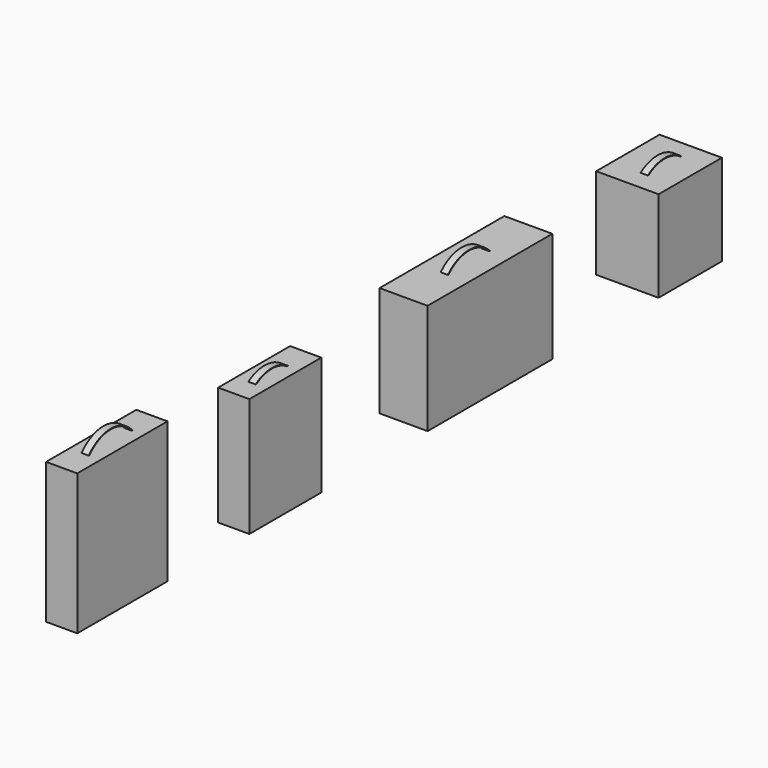
from build123d import *

# Parameters (mm, degrees)
F0_W     = 130
F0_H     = 470
F1_DEPTH = 587
F0_H_2   = 375
F2_DEPTH = 495
F0_W_2   = 200
F0_H_3   = 650
F3_DEPTH = 460
F0_W_3   = 260
F0_H_4   = 330
F4_DEPTH = 380
F5_R     = 150
F6_DEPTH = 30
F7_T     = -2.5


with BuildPart() as f1:
    # F0 (on Top) → F1 (new body)
    with BuildSketch(Plane.XY):
        with Locations((-201.6175293922, 2.5235647885)):
            Rectangle(F0_W, F0_H)
    extrude(amount=F1_DEPTH)


with BuildPart() as f2:
    # F0 (on Top) → F2 (new body)
    with BuildSketch(Plane.XY):
        with Locations((-201.6175293922, 851.6229629517)):
            Rectangle(F0_W, F0_H_2)
    extrude(amount=F2_DEPTH)


with BuildPart() as f3:
    # F0 (on Top) → F3 (new body)
    with BuildSketch(Plane.XY):
        with Locations((-236.6175293922, 1917.7890539169)):
            Rectangle(F0_W_2, F0_H_3)
    extrude(amount=F3_DEPTH)


with BuildPart() as f4:
    # F0 (on Top) → F4 (new body)
    with BuildSketch(Plane.XY):
        with Locations((-266.6175293922, 2961.4551448822)):
            Rectangle(F0_W_3, F0_H_4)
    extrude(amount=F4_DEPTH)


with BuildPart() as f6:
    # F5 (on face) → F6 (new body)
    with BuildSketch(Plane.YZ.offset(-136.6175293922)):
        with Locations((2.5235647885, 489.5436763763)):
            Circle(F5_R)
    extrude(amount=-F6_DEPTH)

    # F7
    f7_openings = [f6.faces().sort_by_distance(p)[0] for p in [
        (-136.617529, 2.523565, 489.543676),
        (-166.617529, 2.523565, 489.543676),
    ]]
    offset(amount=F7_T, openings=f7_openings)


with BuildPart() as f6_1:
    # F8: moved
    add(f6.part.moved(Location((-48.78947, 0, 0))))


with BuildPart() as f9_1:
    # F9: copy of F6
    add(f6_1.part.moved(Location((0, 839.13013, -118.55507))))


with BuildPart() as f10_1:
    # F10: copy of F9_1
    add(f9_1.part.moved(Location((-35.21998, 1071.27458, -13.62842))))


with BuildPart() as f11_1:
    # F11: copy of F10_1
    add(f10_1.part.moved(Location((-26.14786, 1052.51741, -98.97476))))


with BuildPart() as f6_2:
    add(f6_1.part)

    # F12: cut F1
    add(f1.part, mode=Mode.SUBTRACT)


solid = Compound([f1.part, f2.part, f3.part, f4.part, f9_1.part, f10_1.part, f11_1.part, f6_2.part])
